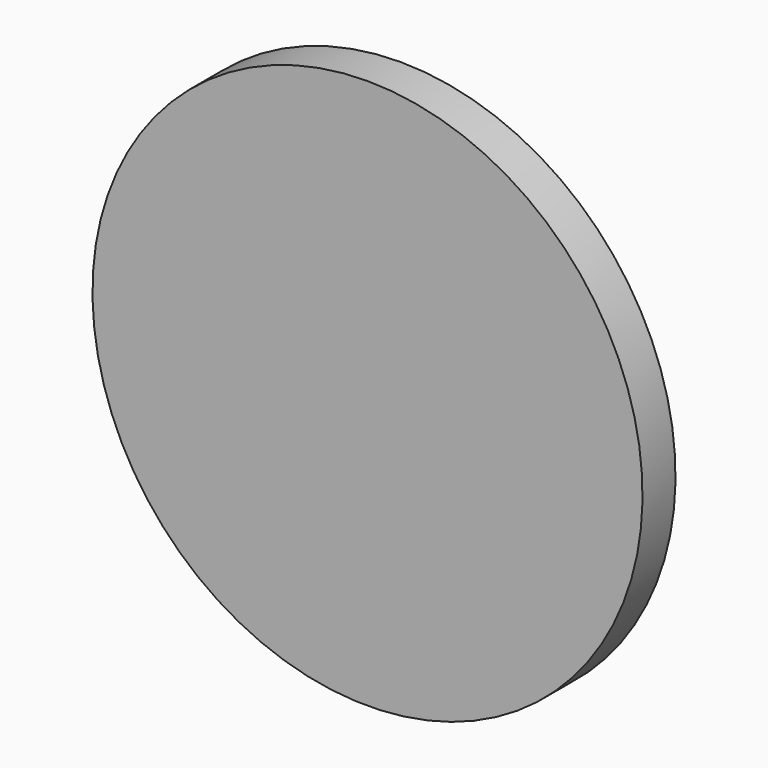
from build123d import *

# Parameters (mm, degrees)
F0_W = 1
F0_H = 7


with BuildPart() as f1:
    # F0 (on Right) → F1 (revolve)
    with BuildSketch(Plane.YZ):
        Polygon((0, 10), (0, 8.5), (1, 8.5), (1.5, 8.5), (1.5, 10), align=None)
        with Locations((0.5, 5)):
            Rectangle(F0_W, F0_H)
        Polygon((0, 1.5), (0, 0), (2, 0), (2, 1.5), (1, 1.5), align=None)
    revolve(axis=Axis((0, 1, 0), (0, 1, 0)))


solid = f1.part
